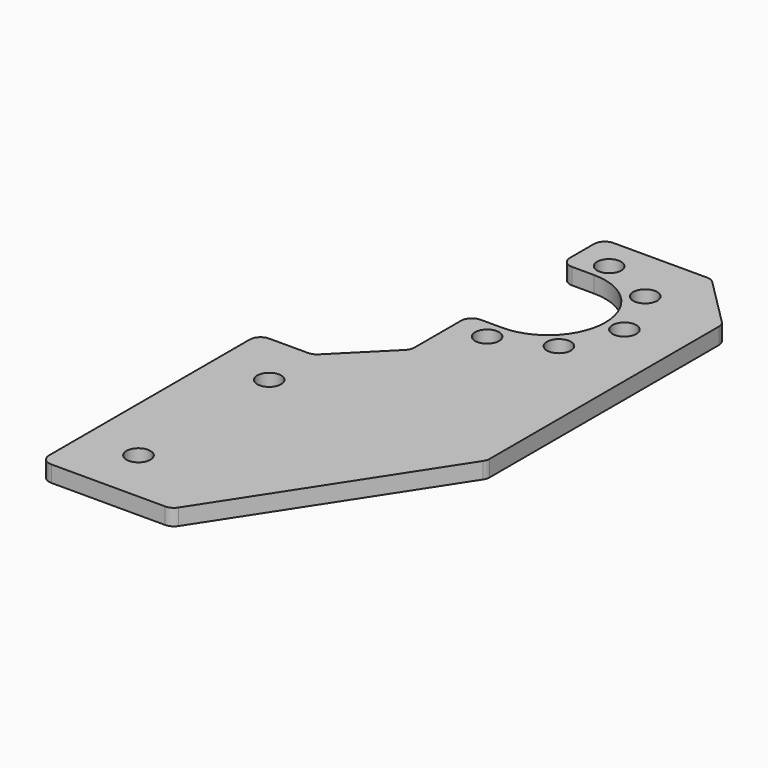
from build123d import *

# Parameters (mm, degrees)
F0_R     = 1.1
F1_DEPTH = 1.5
F2_R     = 1.1
F3_DEPTH = 1.5
F4_R     = 1
F5_SIZE  = 5
F6_R     = 1


with BuildPart() as f1:
    # F0 (on Top) → F1 (new body)
    with BuildSketch(Plane.XY):
        with BuildLine():
            Line((7.5, -55), (7.5, 55))
            Line((7.5, 55), (-7.5, 55))
            Line((-7.5, 55), (-7.5, 50.25))
            Line((-7.5, 50.25), (-4.5, 50.25))
            ThreePointArc((-4.5, 50.25), (0.75, 45), (-4.5, 39.75))
            Line((-4.5, 39.75), (-7.5, 39.75))
            Line((-7.5, 39.75), (-7.5, 28))
            Line((-7.5, 28), (-42.5, 28))
            Line((-42.5, 28), (-42.5, -55))
            Line((-42.5, -55), (-7.5, -55))
            Line((-7.5, -55), (7.5, -55))
        make_face()
        with Locations((-4.5, 38)):
            Circle(F0_R, mode=Mode.SUBTRACT)
        with Locations((0.4497474683, 40.0502525317)):
            Circle(F0_R, mode=Mode.SUBTRACT)
        with Locations((-4.5, 52)):
            Circle(F0_R, mode=Mode.SUBTRACT)
        with Locations((0.4497474683, 49.9497474683)):
            Circle(F0_R, mode=Mode.SUBTRACT)
        with Locations((2.5, 45)):
            Circle(F0_R, mode=Mode.SUBTRACT)
    extrude(amount=F1_DEPTH)

    # F2 (on face) → F3 (cut, through all)
    with BuildSketch(Plane.XY.offset(1.5)):
        Polygon((7.5, -55), (7.5, 23), (-5.5, 3), (-17.5, 3), (-17.5, 28), (-42.5, 28), (-42.5, -55), align=None)
        with Locations((-12.5, 23)):
            Circle(F2_R)
        with Locations((-12.5, 8)):
            Circle(F2_R)
    extrude(amount=-F3_DEPTH, mode=Mode.SUBTRACT)

    # F4
    f4_edges = [f1.edges().sort_by_distance(p)[0] for p in [
        (-17.5, 3, 0.75),
        (-5.5, 3, 0.75),
        (7.5, 23, 0.75),
        (-7.5, 50.25, 0.75),
        (-7.5, 55, 0.75),
        (-7.5, 39.75, 0.75),
        (-17.5, 28, 0.75),
    ]]
    fillet(f4_edges, radius=F4_R)

    # F5
    f5_edges = [f1.edges().sort_by_distance(p)[0] for p in [
        (7.5, 55, 0.75),
        (-7.5, 28, 0.75),
    ]]
    chamfer(f5_edges, length=F5_SIZE)

    # F6
    f6_edges = [f1.edges().sort_by_distance(p)[0] for p in [
        (-7.5, 33, 0.75),
        (-12.5, 28, 0.75),
        (2.5, 55, 0.75),
        (7.5, 50, 0.75),
    ]]
    fillet(f6_edges, radius=F6_R)


solid = f1.part
